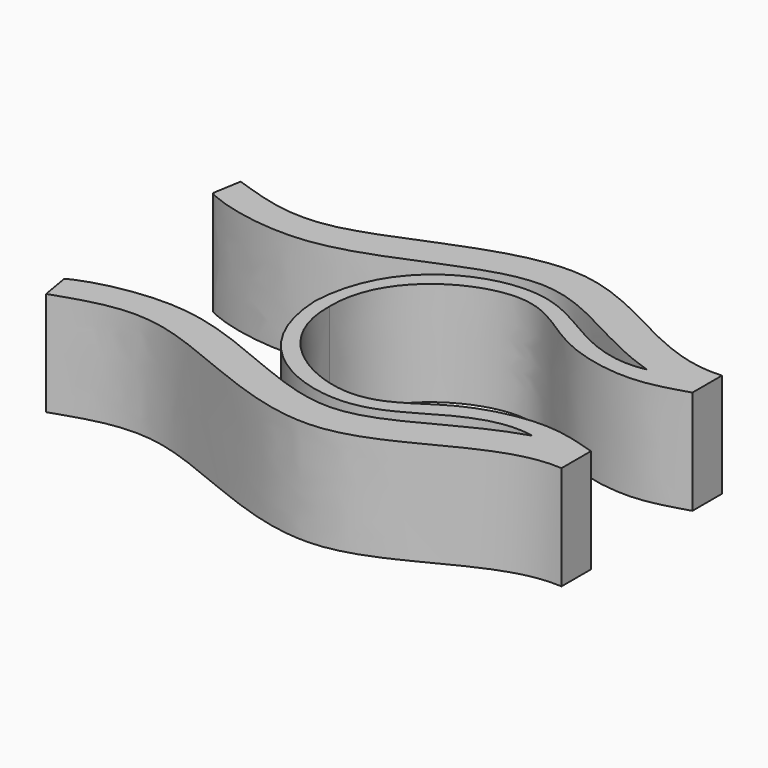
from build123d import *

# Parameters (mm, degrees)
F1_DEPTH = 6.35


with BuildPart() as f1:
    # F0 (on Top) → F1 (new body)
    with BuildSketch(Plane.XY):
        with BuildLine():
            Line((-7.239, 0), (-6.35, 0))
            add(Edge.make_bspline(
                [(-6.35, 0), (-6.4543979242, 4.1156923398), (0.3513461825, 8.0251314613), (4.3393055159, 3.8555318229), (9.5125925411, 2.8102399995), (11.6929529649, 3.5667879851), (12.702926062, 3.8652697112)],
                knots=[0, 0, 0, 0, 0.3225032216, 0.5662063752, 0.8054904119, 1, 1, 1, 1], degree=3))
            Line((12.702926062, 3.8652697112), (12.702926062, 6.1151278205))
            add(Edge.make_bspline(
                [(12.702926062, 6.1151278205), (8.6250874933, 5.8280945289), (1.4539521042, 13.5921273042), (-11.2772145806, 5.0404405999), (-15.7768738407, 6.7878590405), (-17.6974851638, 7.4180210941)],
                knots=[0, 0, 0, 0, 0.3654680208, 0.7395889852, 1, 1, 1, 1], degree=3))
            Line((-17.6974851638, 7.4180210941), (-17.9952885956, 5.6684212759))
            add(Edge.make_bspline(
                [(9.5204543322, 4.3716481887), (5.6052934378, 5.6132501923), (0.3884985264, 10.7921644646), (-10.3748253629, 2.9284973686), (-17.3960257017, 5.2332257866), (-17.9952885956, 5.6684212759)],
                knots=[0, 0, 0, 0, 0.3462014032, 0.7195308673, 1, 1, 1, 1], degree=3))
            add(Edge.make_bspline(
                [(-7.239, 0), (-6.9918343797, 5.3455634043), (0.1239468337, 8.6553963179), (4.6728223383, 5.195974942), (7.8015998006, 4.0125525557), (9.5204543322, 4.3716481887)],
                knots=[0, 0, 0, 0, 0.4174438181, 0.7150321024, 1, 1, 1, 1], degree=3))
        make_face()
    extrude(amount=F1_DEPTH)

    # F2: F1 across plane


with BuildPart() as f1_1:
    add(f1.part)
    add(f1.part.mirror(Plane.XZ))


solid = f1_1.part
